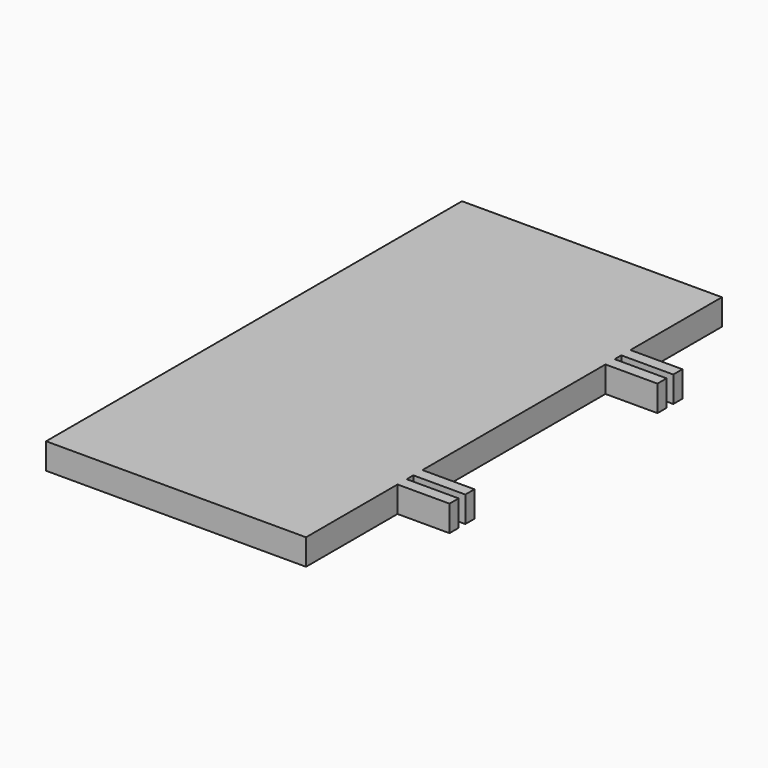
from build123d import *

# Parameters (mm, degrees)
F1_DEPTH = 5


with BuildPart() as f1:
    # F0 (on Top) → F1 (new body)
    with BuildSketch(Plane.XY):
        Polygon((0, 50), (0, 0), (0, -50), (50, -50), (50, -28), (60, -28), (60, -25.8), (50, -25.8), (50, -24.2), (60, -24.2), (60, -22), (50, -22), (50, 0), (50, 22), (60, 22), (60, 24.2), (50, 24.2), (50, 25.8), (60, 25.8), (60, 28), (50, 28), (50, 50), align=None)
    extrude(amount=F1_DEPTH)


solid = f1.part
